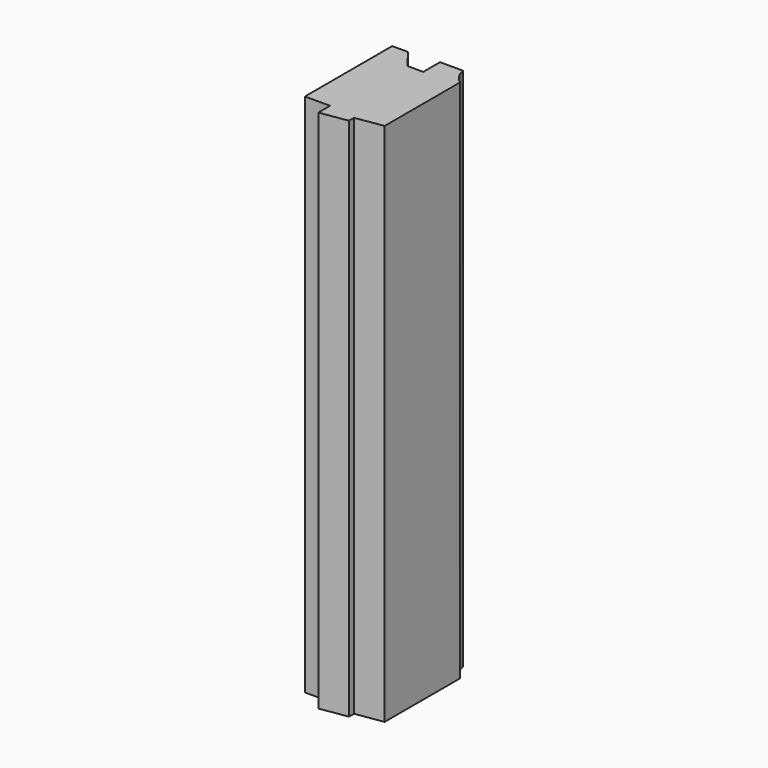
from build123d import *

# Parameters (mm, degrees)
PAD_DEPTH    = 250
SKETCH001_W  = 2
SKETCH001_H  = 45
POCKET_DEPTH = 20


with BuildPart() as part:
    # Sketch → Pad (new body)
    with BuildSketch(Plane.XY):
        with BuildLine():
            Line((0, 0), (7.5, 0))
            Line((7.5, 0), (14.5, -9))
            Line((14.5, -9), (22, -9))
            Line((22, -9), (22, 1))
            Line((22, 1), (33, 1))
            ThreePointArc((33, 1), (34.680866, -3.511959), (38, -7))
            Line((38, -7), (38, -52))
            Line((38, -52), (25, -54))
            Line((25, -54), (25, -57))
            Line((25, -57), (12, -59))
            Line((12, -59), (12, -52))
            Line((12, -52), (0, -52))
            Line((0, -52), (0, 0))
        make_face()
    extrude(amount=PAD_DEPTH)

    # Sketch001 (on Face5 of Pad) → Pocket (cut)
    with BuildSketch(Plane(origin=(0, 1, 0), x_dir=(-1, 0, 0), z_dir=(0, 1, 0))):
        with Locations((-23, 102.5)):
            Rectangle(SKETCH001_W, SKETCH001_H)
    extrude(amount=-POCKET_DEPTH, mode=Mode.SUBTRACT)


solid = part.part
